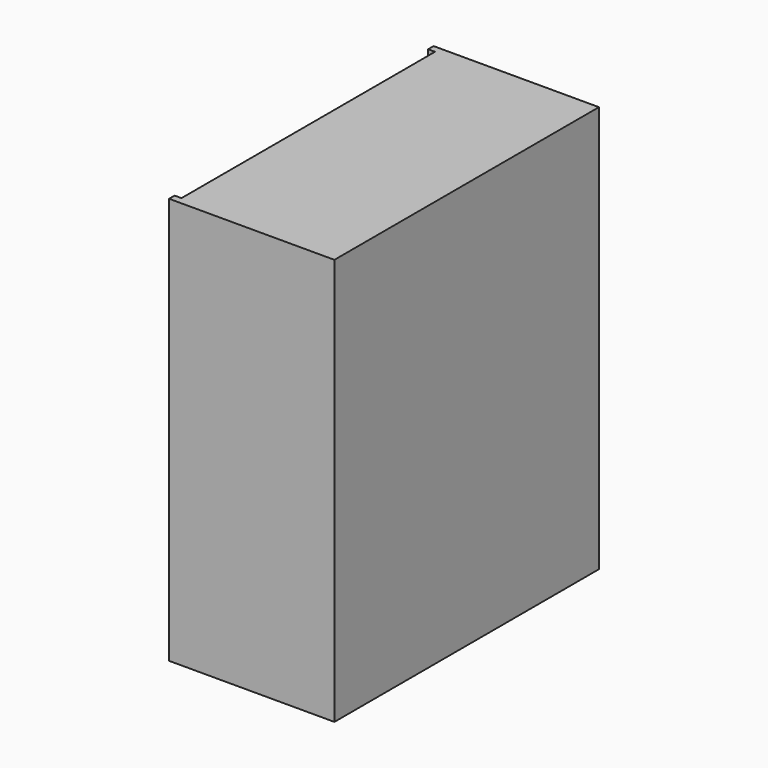
from build123d import *

# Parameters (mm, degrees)
BOX006_W               = 1168.4
BOX006_H               = 25.4
BOX006_DEPTH           = 1500
BOX005_W               = 1219.2
BOX005_H               = 609.6
BOX005_DEPTH           = 1500
CUT004_PLACEMENT_ANGLE = 270


with BuildPart() as cube006:
    # Box006 → Box006 (new body)
    with BuildSketch(Plane(origin=(25.4, 0, 25.4), x_dir=(1, 0, 0), z_dir=(0, 0, 1))):
        with Locations((584.2, 12.7)):
            Rectangle(BOX006_W, BOX006_H)
    extrude(amount=BOX006_DEPTH)


with BuildPart() as cut004:
    # Box005 → Box005 (new body)
    with BuildSketch(Plane.XY):
        with Locations((609.6, 304.8)):
            Rectangle(BOX005_W, BOX005_H)
    extrude(amount=BOX005_DEPTH)

    # Cut004: cut Cube006
    add(cube006.part, mode=Mode.SUBTRACT)


with BuildPart() as cut004_1:
    # Cut004 placement: moved
    add(cut004.part.moved(Location((4298, 2552, 0))).rotate(Axis((4298, 2552, 0), (0, 0, 1)), CUT004_PLACEMENT_ANGLE))


solid = cut004_1.part
